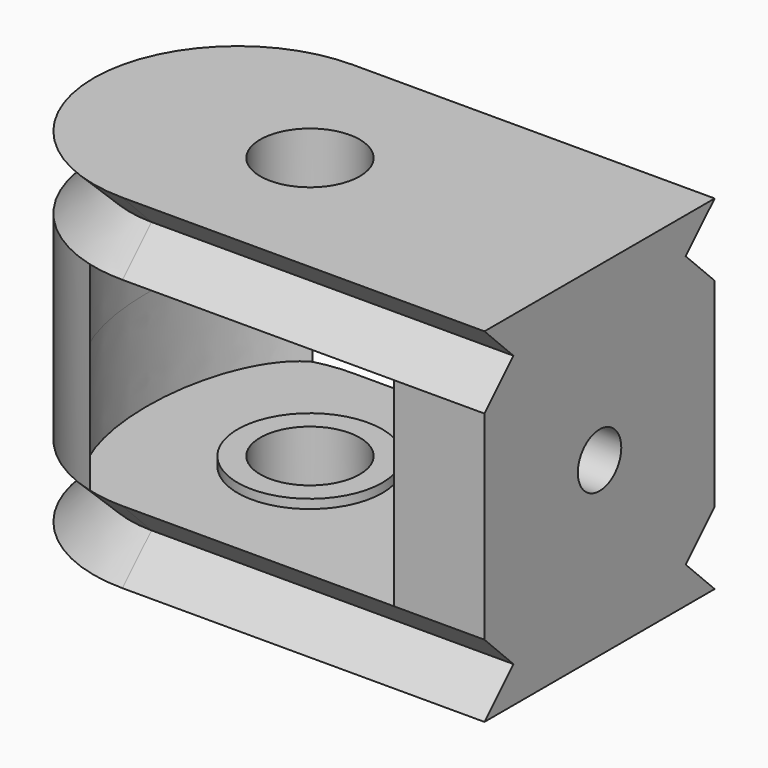
from build123d import *

# Parameters (mm, degrees)
CYLINDER_R           = 7.95
CYLINDER_DEPTH       = 11
PAD_DEPTH            = 20
BOX_W                = 20
BOX_H                = 15.9
BOX_DEPTH            = 11
SKETCH004_R          = 4
POCKET_DEPTH         = 5.5
SKETCH005_R          = 4
POCKET001_DEPTH      = 5
SKETCH006_R          = 2.75
POCKET002_DEPTH      = 9.501
POCKET002_DEPTH_BACK = 9.501
POCKET003_DEPTH      = 2.5
SKETCH008_R          = 1.5
POCKET004_DEPTH      = 5.001


with BuildPart() as obj1:
    # Cylinder → Cylinder (new body)
    with BuildSketch(Plane.XY.offset(-5.5)):
        Circle(CYLINDER_R)
    extrude(amount=CYLINDER_DEPTH)


with BuildPart() as idlerbody:
    # Sketch → Pad (new body)
    with BuildSketch(Plane.YZ):
        Polygon((0, 2), (-7.95, 2), (-5.95, 0), (-7.95, -2), (0, -2), (7.95, -2), (5.95, 0), (7.95, 2), align=None)
    extrude(amount=PAD_DEPTH)

    # Sketch002 (on DatumPlane) → AdditiveLoft section 0
    with BuildSketch(Plane.XY.offset(2)):
        with BuildLine():
            ThreePointArc((0, 7.95), (-7.95, 0), (0, -7.95))
            Line((0, 7.95), (0, -7.95))
        make_face()
    # Sketch001 → AdditiveLoft section 1
    with BuildSketch(Plane.XY):
        with BuildLine():
            ThreePointArc((0, 5.95), (-5.95, 0), (0, -5.95))
            Line((0, 5.95), (0, -5.95))
        make_face()
    # Sketch003 (on DatumPlane) → AdditiveLoft section 2
    with BuildSketch(Plane.XY.offset(-2)):
        with BuildLine():
            ThreePointArc((0, 7.95), (-7.95, 0), (0, -7.95))
            Line((0, 7.95), (0, -7.95))
        make_face()
    loft(ruled=True)


with BuildPart() as idlerbody_1:
    # Body placement: moved
    add(idlerbody.part.moved(Location((0, 0, -7.5))))


with BuildPart() as idlerbody_mirror:
    # Part__Mirroring: instance of IdlerBody
    add(idlerbody_1.part.mirror(Plane(origin=(0, 0, 0), x_dir=(0, 1, 0), z_dir=(0, 0, 1))))


with BuildPart() as finalcutsbody:
    # Box → Box (new body)
    with BuildSketch(Plane(origin=(0, -7.95, -5.5), x_dir=(1, 0, 0), z_dir=(0, 0, 1))):
        with Locations((10, 7.95)):
            Rectangle(BOX_W, BOX_H)
    extrude(amount=BOX_DEPTH)

    # Fusion: union obj1, IdlerBody_Mirror, IdlerBody
    add(obj1.part)
    add(idlerbody_mirror.part)
    add(idlerbody_1.part)

    # Sketch004 → Pocket (cut, symmetric)
    with BuildSketch(Plane.XY):
        with BuildLine():
            Line((-1, 7.95), (0, 7.95))
            Line((0, 7.95), (15, 7.95))
            Line((15, 7.95), (15, -7.95))
            Line((15, -7.95), (0, -7.95))
            Line((0, -7.95), (-1, -7.95))
            add(Edge.make_bspline(
                [(-1, 7.95), (-5, 7.95), (-5, 0), (-5, -7.95), (-1, -7.95)],
                knots=[6.283185, 6.283185, 6.283185, 7.853982, 7.853982, 9.424778, 9.424778, 9.424778], degree=2, weights=[1, 0.707107, 1, 0.707107, 1]))
        make_face()
        with Locations((4, 0)):
            Circle(SKETCH004_R, mode=Mode.SUBTRACT)
    extrude(amount=POCKET_DEPTH, both=True, mode=Mode.SUBTRACT)

    # Sketch005 → Pocket001 (cut, symmetric)
    with BuildSketch(Plane.XY):
        with Locations((4, 0)):
            Circle(SKETCH005_R)
    extrude(amount=POCKET001_DEPTH, both=True, mode=Mode.SUBTRACT)

    # Sketch006 → Pocket002 (cut, two sides)
    with BuildSketch(Plane.XY) as pocket002_sk:
        with Locations((4, 0)):
            Circle(SKETCH006_R)
    extrude(amount=-POCKET002_DEPTH, mode=Mode.SUBTRACT)
    extrude(pocket002_sk.sketch, amount=POCKET002_DEPTH_BACK, mode=Mode.SUBTRACT)

    # Sketch007 (on DatumPlane) → Pocket003 (cut)
    with BuildSketch(Plane.YZ.offset(15)):
        Polygon((2.8, -1.616581), (2.8, 1.616581), (0, 3.233162), (-2.8, 1.616581), (-2.8, -1.616581), (0, -3.233162), align=None)
    extrude(amount=POCKET003_DEPTH, mode=Mode.SUBTRACT)

    # Sketch008 (on DatumPlane) → Pocket004 (cut, through all)
    with BuildSketch(Plane.YZ.offset(15)):
        Circle(SKETCH008_R)
    extrude(amount=POCKET004_DEPTH, mode=Mode.SUBTRACT)


solid = finalcutsbody.part
